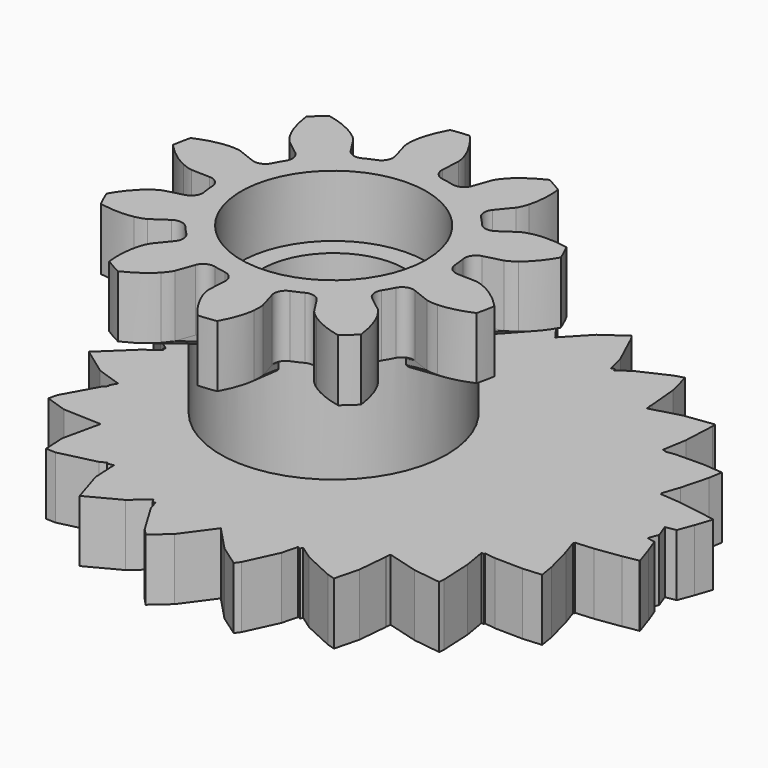
from build123d import *

# Parameters (mm, degrees)
CYLINDER006_R     = 4.5
CYLINDER006_DEPTH = 3
CYLINDER001_R     = 3.5
CYLINDER001_DEPTH = 20
CYLINDER007_R     = 4.5
CYLINDER007_DEPTH = 3
CYLINDER_R        = 5.5
CYLINDER_DEPTH    = 10
PAD005_DEPTH      = 3


with BuildPart() as bearingcutoutbot:
    # Cylinder006 → Cylinder006 (new body)
    with BuildSketch(Plane(origin=(24, 0, 0), x_dir=(1, 0, 0), z_dir=(0, 0, 1))):
        Circle(CYLINDER006_R)
    extrude(amount=CYLINDER006_DEPTH)


with BuildPart() as axlecutout:
    # Cylinder001 → Cylinder001 (new body)
    with BuildSketch(Plane(origin=(24, 0, 0), x_dir=(1, 0, 0), z_dir=(0, 0, 1))):
        Circle(CYLINDER001_R)
    extrude(amount=CYLINDER001_DEPTH)


with BuildPart() as cutouts:
    # Cylinder007 → Cylinder007 (new body)
    with BuildSketch(Plane(origin=(24, 0, 8), x_dir=(1, 0, 0), z_dir=(0, 0, 1))):
        Circle(CYLINDER007_R)
    extrude(amount=CYLINDER007_DEPTH)

    # Fusion006: union bearingCutoutBot, axleCutout
    add(bearingcutoutbot.part)
    add(axlecutout.part)


with BuildPart() as spacer:
    # Cylinder → Cylinder (new body)
    with BuildSketch(Plane(origin=(24, 0, 0), x_dir=(1, 0, 0), z_dir=(0, 0, 1))):
        Circle(CYLINDER_R)
    extrude(amount=CYLINDER_DEPTH)


with BuildPart() as bottomgear:
    # DWire002 → Pad005 (new body)
    with BuildSketch(Plane(origin=(24, 0, 0), x_dir=(1, 0, 0), z_dir=(0, 0, 1))):
        Polygon((16.709229, 2.145517), (16.719025, 2.128678), (16.709229, 2.145517), (16.719025, 2.128678), (16.454472, 1.339116), (16.178713, 0.599104), (15.672795, 0.509454), (15.90905, -0.124547), (15.72899, -0.607747), (16.114571, -0.676073), (16.372412, -1.368), (16.660814, -2.228735), (16.651934, -2.243999), (15.902679, -2.376769), (14.684639, -2.550888), (13.810397, -2.618315), (13.825047, -2.673766), (13.772887, -2.681223), (14.028811, -3.445025), (14.367357, -4.726446), (14.489469, -5.456559), (13.590703, -5.525878), (12.238962, -5.504786), (11.69954, -5.432727), (11.702633, -5.496417), (11.573708, -5.494405), (11.755242, -6.579813), (11.828978, -8.098227), (11.805547, -8.354548), (10.471663, -8.176364), (8.966212, -7.755699), (8.946384, -7.972611), (8.937364, -7.971406), (8.940532, -8.036641), (8.810529, -9.458816), (8.511551, -10.621115), (8.13881, -10.51696), (6.682311, -9.843522), (6.026342, -9.381631), (5.966049, -9.512346), (5.836308, -9.452358), (5.637853, -10.223869), (4.930072, -11.758328), (4.748432, -12.00666), (3.724972, -11.286005), (2.585394, -10.082104), (1.51204, -11.549547), (0.690381, -12.272584), (0.37927, -11.943913), (-0.511368, -10.459177), (-0.661072, -9.983461), (-0.764076, -10.037901), (-0.89147, -9.825529), (-1.687311, -10.525846), (-3.251611, -11.352606), (-3.748981, -9.772107), (-3.811595, -8.569617), (-4.105419, -8.639451), (-4.131165, -8.55764), (-4.43349, -8.717424), (-6.200371, -9.137363), (-6.66889, -9.120193), (-6.723256, -8.076111), (-6.318616, -6.249036), (-8.154589, -6.181752), (-9.179508, -5.838136), (-9.087919, -5.424585), (-8.182627, -3.786216), (-7.998521, -3.610371), (-8.060606, -3.565386), (-7.87793, -3.234786), (-9.067122, -2.836096), (-10.371242, -1.891172), (-8.937012, -0.5213), (-8.244697, -0.01967), (-8.328256, 0.06014), (-8.252357, 0.132632), (-8.881201, 0.588273), (-10.363581, 2.004134), (-9.107384, 2.914336), (-7.836855, 3.340295), (-8.032025, 3.693507), (-7.990861, 3.723334), (-8.11293, 3.839926), (-9.005714, 5.455657), (-9.115492, 5.951336), (-8.170327, 6.268214), (-6.249368, 6.338613), (-6.635781, 8.083385), (-6.577087, 9.210597), (-6.191751, 9.224718), (-4.402621, 8.799492), (-4.026439, 8.600673), (-3.994404, 8.70247), (-3.720966, 8.637482), (-3.662696, 9.756544), (-3.146886, 11.395639), (-1.637572, 10.597941), (-0.779596, 9.842947), (-0.642256, 10.071899), (-0.556347, 10.026495), (-0.43149, 10.423257), (0.448969, 11.891022), (0.815554, 12.278299), (1.576636, 11.608569), (2.509059, 10.333799), (2.512658, 10.325996), (2.51405, 10.326977), (2.69839, 10.074955), (3.782159, 11.219897), (4.87092, 11.986533), (5.005414, 11.80266), (5.720133, 10.253158), (5.938605, 9.403833), (6.08143, 9.469872), (6.135685, 9.352248), (6.725954, 9.767878), (8.168959, 10.435077), (8.617015, 10.560276), (8.896513, 9.473704), (9.027707, 8.0385), (9.020729, 7.894794), (9.040601, 7.897449), (9.059433, 7.69144), (10.48921, 8.09096), (11.899763, 8.279387), (11.916154, 8.100085), (11.841876, 6.570498), (11.647544, 5.408571), (11.785558, 5.410724), (11.782906, 5.356116), (12.245421, 5.417901), (13.588032, 5.438851), (14.562134, 5.363722), (14.452485, 4.708123), (14.112186, 3.420072), (13.832338, 2.584865), (13.889375, 2.576712), (13.875983, 2.526024), (14.675132, 2.464388), (15.888933, 2.290875), align=None)
    extrude(amount=PAD005_DEPTH)


with BuildPart() as variable_gear_stack_tall:
    # InvoluteGear003 → Loft section 0
    with BuildSketch(Plane(origin=(24, 0, 7), x_dir=(0.909961, 0.414693, 0), z_dir=(0, 0, 1))):
        with BuildLine():
            Line((3.237853, -0.562415), (3.715725, -0.644716))
            add(Edge.make_bspline(
                [(3.715725, -0.644716), (3.74779, -0.647646), (3.843951, -0.65134), (4.006412, -0.613919)],
                knots=[0, 0, 0, 0, 1, 1, 1, 1], degree=3))
            add(Edge.make_bspline(
                [(4.006412, -0.613919), (4.1993, -0.568071), (4.472587, -0.464476), (4.795498, -0.234435)],
                knots=[0, 0, 0, 0, 1, 1, 1, 1], degree=3))
            ThreePointArc((4.795498, -0.234435), (4.801227, 0), (4.795498, 0.234435))
            add(Edge.make_bspline(
                [(4.795498, 0.234435), (4.472587, 0.464476), (4.1993, 0.568071), (4.006412, 0.613919)],
                knots=[0, 0, 0, 0, 1, 1, 1, 1], degree=3))
            add(Edge.make_bspline(
                [(4.006412, 0.613919), (3.843951, 0.65134), (3.74779, 0.647646), (3.715725, 0.644716)],
                knots=[0, 0, 0, 0, 1, 1, 1, 1], degree=3))
            Line((3.715725, 0.644716), (3.237853, 0.562415))
            ThreePointArc((3.237853, 0.562415), (3.025626, 0.604776), (2.897121, 0.778904))
            ThreePointArc((2.897121, 0.778904), (2.85317, 0.927051), (2.801648, 1.072738))
            ThreePointArc((2.801648, 1.072738), (2.803262, 1.289145), (2.950057, 1.448159))
            Line((2.950057, 1.448159), (3.385039, 1.662462))
            add(Edge.make_bspline(
                [(3.385039, 1.662462), (3.412703, 1.678939), (3.49267, 1.732473), (3.602108, 1.858239)],
                knots=[0, 0, 0, 0, 1, 1, 1, 1], degree=3))
            add(Edge.make_bspline(
                [(3.602108, 1.858239), (3.731209, 2.008708), (3.891412, 2.253152), (4.017437, 2.629061)],
                knots=[0, 0, 0, 0, 1, 1, 1, 1], degree=3))
            ThreePointArc((4.017437, 2.629061), (3.884274, 2.82209), (3.741842, 3.008385))
            add(Edge.make_bspline(
                [(3.741842, 3.008385), (3.345387, 3.00469), (3.063402, 2.927866), (2.880403, 2.851581)],
                knots=[0, 0, 0, 0, 1, 1, 1, 1], degree=3))
            add(Edge.make_bspline(
                [(2.880403, 2.851581), (2.726974, 2.786363), (2.651349, 2.726853), (2.62713, 2.705634)],
                knots=[0, 0, 0, 0, 1, 1, 1, 1], degree=3))
            Line((2.62713, 2.705634), (2.288899, 2.358165))
            ThreePointArc((2.288899, 2.358165), (2.092305, 2.267693), (1.885992, 2.333031))
            ThreePointArc((1.885992, 2.333031), (1.763356, 2.427051), (1.636041, 2.514631))
            ThreePointArc((1.636041, 2.514631), (1.510146, 2.690656), (1.53544, 2.905585))
            Line((1.53544, 2.905585), (1.761383, 3.334636))
            add(Edge.make_bspline(
                [(1.761383, 3.334636), (1.774079, 3.364227), (1.807307, 3.45454), (1.821921, 3.620613)],
                knots=[0, 0, 0, 0, 1, 1, 1, 1], degree=3))
            add(Edge.make_bspline(
                [(1.821921, 3.620613), (1.837923, 3.818228), (1.823849, 4.110152), (1.704852, 4.488345)],
                knots=[0, 0, 0, 0, 1, 1, 1, 1], degree=3))
            ThreePointArc((1.704852, 4.488345), (1.483661, 4.566238), (1.258929, 4.633234))
            add(Edge.make_bspline(
                [(1.258929, 4.633234), (0.940362, 4.397215), (0.757388, 4.169315), (0.654178, 4.000036)],
                knots=[0, 0, 0, 0, 1, 1, 1, 1], degree=3))
            add(Edge.make_bspline(
                [(0.654178, 4.000036), (0.568385, 3.85709), (0.542183, 3.764494), (0.535061, 3.733092)],
                knots=[0, 0, 0, 0, 1, 1, 1, 1], degree=3))
            Line((0.535061, 3.733092), (0.465663, 3.253177))
            ThreePointArc((0.465663, 3.253177), (0.359794, 3.064428), (0.154478, 2.99602))
            ThreePointArc((0.154478, 2.99602), (0, 3), (-0.154478, 2.99602))
            ThreePointArc((-0.154478, 2.99602), (-0.359794, 3.064428), (-0.465663, 3.253177))
            Line((-0.465663, 3.253177), (-0.535061, 3.733092))
            add(Edge.make_bspline(
                [(-0.535061, 3.733092), (-0.542183, 3.764494), (-0.568385, 3.85709), (-0.654178, 4.000036)],
                knots=[0, 0, 0, 0, 1, 1, 1, 1], degree=3))
            add(Edge.make_bspline(
                [(-0.654178, 4.000036), (-0.757388, 4.169315), (-0.940362, 4.397215), (-1.258929, 4.633234)],
                knots=[0, 0, 0, 0, 1, 1, 1, 1], degree=3))
            ThreePointArc((-1.258929, 4.633234), (-1.483661, 4.566238), (-1.704852, 4.488345))
            add(Edge.make_bspline(
                [(-1.704852, 4.488345), (-1.823849, 4.110152), (-1.837923, 3.818228), (-1.821921, 3.620613)],
                knots=[0, 0, 0, 0, 1, 1, 1, 1], degree=3))
            add(Edge.make_bspline(
                [(-1.821921, 3.620613), (-1.807307, 3.45454), (-1.774079, 3.364227), (-1.761383, 3.334636)],
                knots=[0, 0, 0, 0, 1, 1, 1, 1], degree=3))
            Line((-1.761383, 3.334636), (-1.53544, 2.905585))
            ThreePointArc((-1.53544, 2.905585), (-1.510146, 2.690656), (-1.636041, 2.514631))
            ThreePointArc((-1.636041, 2.514631), (-1.763356, 2.427051), (-1.885992, 2.333031))
            ThreePointArc((-1.885992, 2.333031), (-2.092305, 2.267693), (-2.288899, 2.358165))
            Line((-2.288899, 2.358165), (-2.62713, 2.705634))
            add(Edge.make_bspline(
                [(-2.62713, 2.705634), (-2.651349, 2.726853), (-2.726974, 2.786363), (-2.880403, 2.851581)],
                knots=[0, 0, 0, 0, 1, 1, 1, 1], degree=3))
            add(Edge.make_bspline(
                [(-2.880403, 2.851581), (-3.063402, 2.927866), (-3.345387, 3.00469), (-3.741842, 3.008385)],
                knots=[0, 0, 0, 0, 1, 1, 1, 1], degree=3))
            ThreePointArc((-3.741842, 3.008385), (-3.884274, 2.82209), (-4.017437, 2.629061))
            add(Edge.make_bspline(
                [(-4.017437, 2.629061), (-3.891412, 2.253152), (-3.731209, 2.008708), (-3.602108, 1.858239)],
                knots=[0, 0, 0, 0, 1, 1, 1, 1], degree=3))
            add(Edge.make_bspline(
                [(-3.602108, 1.858239), (-3.49267, 1.732473), (-3.412703, 1.678939), (-3.385039, 1.662462)],
                knots=[0, 0, 0, 0, 1, 1, 1, 1], degree=3))
            Line((-3.385039, 1.662462), (-2.950057, 1.448159))
            ThreePointArc((-2.950057, 1.448159), (-2.803262, 1.289145), (-2.801648, 1.072738))
            ThreePointArc((-2.801648, 1.072738), (-2.85317, 0.927051), (-2.897121, 0.778904))
            ThreePointArc((-2.897121, 0.778904), (-3.025626, 0.604776), (-3.237853, 0.562415))
            Line((-3.237853, 0.562415), (-3.715725, 0.644716))
            add(Edge.make_bspline(
                [(-3.715725, 0.644716), (-3.74779, 0.647646), (-3.843951, 0.65134), (-4.006412, 0.613919)],
                knots=[0, 0, 0, 0, 1, 1, 1, 1], degree=3))
            add(Edge.make_bspline(
                [(-4.006412, 0.613919), (-4.1993, 0.568071), (-4.472587, 0.464476), (-4.795498, 0.234435)],
                knots=[0, 0, 0, 0, 1, 1, 1, 1], degree=3))
            ThreePointArc((-4.795498, 0.234435), (-4.801227, 0), (-4.795498, -0.234435))
            add(Edge.make_bspline(
                [(-4.795498, -0.234435), (-4.472587, -0.464476), (-4.1993, -0.568071), (-4.006412, -0.613919)],
                knots=[0, 0, 0, 0, 1, 1, 1, 1], degree=3))
            add(Edge.make_bspline(
                [(-4.006412, -0.613919), (-3.843951, -0.65134), (-3.74779, -0.647646), (-3.715725, -0.644716)],
                knots=[0, 0, 0, 0, 1, 1, 1, 1], degree=3))
            Line((-3.715725, -0.644716), (-3.237853, -0.562415))
            ThreePointArc((-3.237853, -0.562415), (-3.025626, -0.604776), (-2.897121, -0.778904))
            ThreePointArc((-2.897121, -0.778904), (-2.85317, -0.927051), (-2.801648, -1.072738))
            ThreePointArc((-2.801648, -1.072738), (-2.803262, -1.289145), (-2.950057, -1.448159))
            Line((-2.950057, -1.448159), (-3.385039, -1.662462))
            add(Edge.make_bspline(
                [(-3.385039, -1.662462), (-3.412703, -1.678939), (-3.49267, -1.732473), (-3.602108, -1.858239)],
                knots=[0, 0, 0, 0, 1, 1, 1, 1], degree=3))
            add(Edge.make_bspline(
                [(-3.602108, -1.858239), (-3.731209, -2.008708), (-3.891412, -2.253152), (-4.017437, -2.629061)],
                knots=[0, 0, 0, 0, 1, 1, 1, 1], degree=3))
            ThreePointArc((-4.017437, -2.629061), (-3.884274, -2.82209), (-3.741842, -3.008385))
            add(Edge.make_bspline(
                [(-3.741842, -3.008385), (-3.345387, -3.00469), (-3.063402, -2.927866), (-2.880403, -2.851581)],
                knots=[0, 0, 0, 0, 1, 1, 1, 1], degree=3))
            add(Edge.make_bspline(
                [(-2.880403, -2.851581), (-2.726974, -2.786363), (-2.651349, -2.726853), (-2.62713, -2.705634)],
                knots=[0, 0, 0, 0, 1, 1, 1, 1], degree=3))
            Line((-2.62713, -2.705634), (-2.288899, -2.358165))
            ThreePointArc((-2.288899, -2.358165), (-2.092305, -2.267693), (-1.885992, -2.333031))
            ThreePointArc((-1.885992, -2.333031), (-1.763356, -2.427051), (-1.636041, -2.514631))
            ThreePointArc((-1.636041, -2.514631), (-1.510146, -2.690656), (-1.53544, -2.905585))
            Line((-1.53544, -2.905585), (-1.761383, -3.334636))
            add(Edge.make_bspline(
                [(-1.761383, -3.334636), (-1.774079, -3.364227), (-1.807307, -3.45454), (-1.821921, -3.620613)],
                knots=[0, 0, 0, 0, 1, 1, 1, 1], degree=3))
            add(Edge.make_bspline(
                [(-1.821921, -3.620613), (-1.837923, -3.818228), (-1.823849, -4.110152), (-1.704852, -4.488345)],
                knots=[0, 0, 0, 0, 1, 1, 1, 1], degree=3))
            ThreePointArc((-1.704852, -4.488345), (-1.483661, -4.566238), (-1.258929, -4.633234))
            add(Edge.make_bspline(
                [(-1.258929, -4.633234), (-0.940362, -4.397215), (-0.757388, -4.169315), (-0.654178, -4.000036)],
                knots=[0, 0, 0, 0, 1, 1, 1, 1], degree=3))
            add(Edge.make_bspline(
                [(-0.654178, -4.000036), (-0.568385, -3.85709), (-0.542183, -3.764494), (-0.535061, -3.733092)],
                knots=[0, 0, 0, 0, 1, 1, 1, 1], degree=3))
            Line((-0.535061, -3.733092), (-0.465663, -3.253177))
            ThreePointArc((-0.465663, -3.253177), (-0.359794, -3.064428), (-0.154478, -2.99602))
            ThreePointArc((-0.154478, -2.99602), (0, -3), (0.154478, -2.99602))
            ThreePointArc((0.154478, -2.99602), (0.359794, -3.064428), (0.465663, -3.253177))
            Line((0.465663, -3.253177), (0.535061, -3.733092))
            add(Edge.make_bspline(
                [(0.535061, -3.733092), (0.542183, -3.764494), (0.568385, -3.85709), (0.654178, -4.000036)],
                knots=[0, 0, 0, 0, 1, 1, 1, 1], degree=3))
            add(Edge.make_bspline(
                [(0.654178, -4.000036), (0.757388, -4.169315), (0.940362, -4.397215), (1.258929, -4.633234)],
                knots=[0, 0, 0, 0, 1, 1, 1, 1], degree=3))
            ThreePointArc((1.258929, -4.633234), (1.483661, -4.566238), (1.704852, -4.488345))
            add(Edge.make_bspline(
                [(1.704852, -4.488345), (1.823849, -4.110152), (1.837923, -3.818228), (1.821921, -3.620613)],
                knots=[0, 0, 0, 0, 1, 1, 1, 1], degree=3))
            add(Edge.make_bspline(
                [(1.821921, -3.620613), (1.807307, -3.45454), (1.774079, -3.364227), (1.761383, -3.334636)],
                knots=[0, 0, 0, 0, 1, 1, 1, 1], degree=3))
            Line((1.761383, -3.334636), (1.53544, -2.905585))
            ThreePointArc((1.53544, -2.905585), (1.510146, -2.690656), (1.636041, -2.514631))
            ThreePointArc((1.636041, -2.514631), (1.763356, -2.427051), (1.885992, -2.333031))
            ThreePointArc((1.885992, -2.333031), (2.092305, -2.267693), (2.288899, -2.358165))
            Line((2.288899, -2.358165), (2.62713, -2.705634))
            add(Edge.make_bspline(
                [(2.62713, -2.705634), (2.651349, -2.726853), (2.726974, -2.786363), (2.880403, -2.851581)],
                knots=[0, 0, 0, 0, 1, 1, 1, 1], degree=3))
            add(Edge.make_bspline(
                [(2.880403, -2.851581), (3.063402, -2.927866), (3.345387, -3.00469), (3.741842, -3.008385)],
                knots=[0, 0, 0, 0, 1, 1, 1, 1], degree=3))
            ThreePointArc((3.741842, -3.008385), (3.884274, -2.82209), (4.017437, -2.629061))
            add(Edge.make_bspline(
                [(4.017437, -2.629061), (3.891412, -2.253152), (3.731209, -2.008708), (3.602108, -1.858239)],
                knots=[0, 0, 0, 0, 1, 1, 1, 1], degree=3))
            add(Edge.make_bspline(
                [(3.602108, -1.858239), (3.49267, -1.732473), (3.412703, -1.678939), (3.385039, -1.662462)],
                knots=[0, 0, 0, 0, 1, 1, 1, 1], degree=3))
            Line((3.385039, -1.662462), (2.950057, -1.448159))
            ThreePointArc((2.950057, -1.448159), (2.803262, -1.289145), (2.801648, -1.072738))
            ThreePointArc((2.801648, -1.072738), (2.85317, -0.927051), (2.897121, -0.778904))
            ThreePointArc((2.897121, -0.778904), (3.025626, -0.604776), (3.237853, -0.562415))
        make_face()
    # InvoluteGear005 → Loft section 1
    with BuildSketch(Plane(origin=(24, 0, 8), x_dir=(0.909961, 0.414693, 0), z_dir=(0, 0, 1))):
        with BuildLine():
            Line((6.070974, -1.054528), (6.966984, -1.208843))
            add(Edge.make_bspline(
                [(6.966984, -1.208843), (7.027107, -1.214337), (7.207408, -1.221262), (7.512023, -1.151099)],
                knots=[0, 0, 0, 0, 1, 1, 1, 1], degree=3))
            add(Edge.make_bspline(
                [(7.512023, -1.151099), (7.873688, -1.065133), (8.386102, -0.870893), (8.991559, -0.439566)],
                knots=[0, 0, 0, 0, 1, 1, 1, 1], degree=3))
            ThreePointArc((8.991559, -0.439566), (9.0023, 0), (8.991559, 0.439566))
            add(Edge.make_bspline(
                [(8.991559, 0.439566), (8.386102, 0.870893), (7.873688, 1.065133), (7.512023, 1.151099)],
                knots=[0, 0, 0, 0, 1, 1, 1, 1], degree=3))
            add(Edge.make_bspline(
                [(7.512023, 1.151099), (7.207408, 1.221262), (7.027107, 1.214337), (6.966984, 1.208843)],
                knots=[0, 0, 0, 0, 1, 1, 1, 1], degree=3))
            Line((6.966984, 1.208843), (6.070974, 1.054528))
            ThreePointArc((6.070974, 1.054528), (5.67305, 1.133955), (5.432101, 1.460445))
            ThreePointArc((5.432101, 1.460445), (5.349693, 1.738221), (5.25309, 2.011384))
            ThreePointArc((5.25309, 2.011384), (5.256115, 2.417146), (5.531357, 2.715298))
            Line((5.531357, 2.715298), (6.346948, 3.117116))
            add(Edge.make_bspline(
                [(6.346948, 3.117116), (6.398818, 3.148011), (6.548756, 3.248387), (6.753953, 3.484198)],
                knots=[0, 0, 0, 0, 1, 1, 1, 1], degree=3))
            add(Edge.make_bspline(
                [(6.753953, 3.484198), (6.996017, 3.766327), (7.296397, 4.22466), (7.532695, 4.92949)],
                knots=[0, 0, 0, 0, 1, 1, 1, 1], degree=3))
            ThreePointArc((7.532695, 4.92949), (7.283014, 5.291419), (7.015954, 5.640722))
            add(Edge.make_bspline(
                [(7.015954, 5.640722), (6.272601, 5.633794), (5.743878, 5.489748), (5.400755, 5.346715)],
                knots=[0, 0, 0, 0, 1, 1, 1, 1], degree=3))
            add(Edge.make_bspline(
                [(5.400755, 5.346715), (5.113076, 5.22443), (4.97128, 5.112849), (4.925868, 5.073064)],
                knots=[0, 0, 0, 0, 1, 1, 1, 1], degree=3))
            Line((4.925868, 5.073064), (4.291685, 4.42156))
            ThreePointArc((4.291685, 4.42156), (3.923072, 4.251923), (3.536234, 4.374434))
            ThreePointArc((3.536234, 4.374434), (3.306292, 4.550721), (3.067578, 4.714933))
            ThreePointArc((3.067578, 4.714933), (2.831524, 5.04498), (2.87895, 5.447972))
            Line((2.87895, 5.447972), (3.302594, 6.252442))
            add(Edge.make_bspline(
                [(3.302594, 6.252442), (3.326399, 6.307925), (3.388701, 6.477262), (3.416103, 6.788649)],
                knots=[0, 0, 0, 0, 1, 1, 1, 1], degree=3))
            add(Edge.make_bspline(
                [(3.416103, 6.788649), (3.446105, 7.159178), (3.419716, 7.706536), (3.196597, 8.415648)],
                knots=[0, 0, 0, 0, 1, 1, 1, 1], degree=3))
            ThreePointArc((3.196597, 8.415648), (2.781864, 8.561696), (2.360492, 8.687314))
            add(Edge.make_bspline(
                [(2.360492, 8.687314), (1.76318, 8.244777), (1.420102, 7.817466), (1.226583, 7.500067)],
                knots=[0, 0, 0, 0, 1, 1, 1, 1], degree=3))
            add(Edge.make_bspline(
                [(1.226583, 7.500067), (1.065722, 7.232044), (1.016592, 7.058427), (1.003239, 6.999548)],
                knots=[0, 0, 0, 0, 1, 1, 1, 1], degree=3))
            Line((1.003239, 6.999548), (0.873118, 6.099706))
            ThreePointArc((0.873118, 6.099706), (0.674614, 5.745802), (0.289646, 5.617538))
            ThreePointArc((0.289646, 5.617538), (0, 5.625), (-0.289646, 5.617538))
            ThreePointArc((-0.289646, 5.617538), (-0.674614, 5.745802), (-0.873118, 6.099706))
            Line((-0.873118, 6.099706), (-1.003239, 6.999548))
            add(Edge.make_bspline(
                [(-1.003239, 6.999548), (-1.016592, 7.058427), (-1.065722, 7.232044), (-1.226583, 7.500067)],
                knots=[0, 0, 0, 0, 1, 1, 1, 1], degree=3))
            add(Edge.make_bspline(
                [(-1.226583, 7.500067), (-1.420102, 7.817466), (-1.76318, 8.244777), (-2.360492, 8.687314)],
                knots=[0, 0, 0, 0, 1, 1, 1, 1], degree=3))
            ThreePointArc((-2.360492, 8.687314), (-2.781864, 8.561696), (-3.196597, 8.415648))
            add(Edge.make_bspline(
                [(-3.196597, 8.415648), (-3.419716, 7.706536), (-3.446105, 7.159178), (-3.416103, 6.788649)],
                knots=[0, 0, 0, 0, 1, 1, 1, 1], degree=3))
            add(Edge.make_bspline(
                [(-3.416103, 6.788649), (-3.388701, 6.477262), (-3.326399, 6.307925), (-3.302594, 6.252442)],
                knots=[0, 0, 0, 0, 1, 1, 1, 1], degree=3))
            Line((-3.302594, 6.252442), (-2.87895, 5.447972))
            ThreePointArc((-2.87895, 5.447972), (-2.831524, 5.04498), (-3.067578, 4.714933))
            ThreePointArc((-3.067578, 4.714933), (-3.306292, 4.550721), (-3.536234, 4.374434))
            ThreePointArc((-3.536234, 4.374434), (-3.923072, 4.251923), (-4.291685, 4.42156))
            Line((-4.291685, 4.42156), (-4.925868, 5.073064))
            add(Edge.make_bspline(
                [(-4.925868, 5.073064), (-4.97128, 5.112849), (-5.113076, 5.22443), (-5.400755, 5.346715)],
                knots=[0, 0, 0, 0, 1, 1, 1, 1], degree=3))
            add(Edge.make_bspline(
                [(-5.400755, 5.346715), (-5.743878, 5.489748), (-6.272601, 5.633794), (-7.015954, 5.640722)],
                knots=[0, 0, 0, 0, 1, 1, 1, 1], degree=3))
            ThreePointArc((-7.015954, 5.640722), (-7.283014, 5.291419), (-7.532695, 4.92949))
            add(Edge.make_bspline(
                [(-7.532695, 4.92949), (-7.296397, 4.22466), (-6.996017, 3.766327), (-6.753953, 3.484198)],
                knots=[0, 0, 0, 0, 1, 1, 1, 1], degree=3))
            add(Edge.make_bspline(
                [(-6.753953, 3.484198), (-6.548756, 3.248387), (-6.398818, 3.148011), (-6.346948, 3.117116)],
                knots=[0, 0, 0, 0, 1, 1, 1, 1], degree=3))
            Line((-6.346948, 3.117116), (-5.531357, 2.715298))
            ThreePointArc((-5.531357, 2.715298), (-5.256115, 2.417146), (-5.25309, 2.011384))
            ThreePointArc((-5.25309, 2.011384), (-5.349693, 1.738221), (-5.432101, 1.460445))
            ThreePointArc((-5.432101, 1.460445), (-5.67305, 1.133955), (-6.070974, 1.054528))
            Line((-6.070974, 1.054528), (-6.966984, 1.208843))
            add(Edge.make_bspline(
                [(-6.966984, 1.208843), (-7.027107, 1.214337), (-7.207408, 1.221262), (-7.512023, 1.151099)],
                knots=[0, 0, 0, 0, 1, 1, 1, 1], degree=3))
            add(Edge.make_bspline(
                [(-7.512023, 1.151099), (-7.873688, 1.065133), (-8.386102, 0.870893), (-8.991559, 0.439566)],
                knots=[0, 0, 0, 0, 1, 1, 1, 1], degree=3))
            ThreePointArc((-8.991559, 0.439566), (-9.0023, 0), (-8.991559, -0.439566))
            add(Edge.make_bspline(
                [(-8.991559, -0.439566), (-8.386102, -0.870893), (-7.873688, -1.065133), (-7.512023, -1.151099)],
                knots=[0, 0, 0, 0, 1, 1, 1, 1], degree=3))
            add(Edge.make_bspline(
                [(-7.512023, -1.151099), (-7.207408, -1.221262), (-7.027107, -1.214337), (-6.966984, -1.208843)],
                knots=[0, 0, 0, 0, 1, 1, 1, 1], degree=3))
            Line((-6.966984, -1.208843), (-6.070974, -1.054528))
            ThreePointArc((-6.070974, -1.054528), (-5.67305, -1.133955), (-5.432101, -1.460445))
            ThreePointArc((-5.432101, -1.460445), (-5.349693, -1.738221), (-5.25309, -2.011384))
            ThreePointArc((-5.25309, -2.011384), (-5.256115, -2.417146), (-5.531357, -2.715298))
            Line((-5.531357, -2.715298), (-6.346948, -3.117116))
            add(Edge.make_bspline(
                [(-6.346948, -3.117116), (-6.398818, -3.148011), (-6.548756, -3.248387), (-6.753953, -3.484198)],
                knots=[0, 0, 0, 0, 1, 1, 1, 1], degree=3))
            add(Edge.make_bspline(
                [(-6.753953, -3.484198), (-6.996017, -3.766327), (-7.296397, -4.22466), (-7.532695, -4.92949)],
                knots=[0, 0, 0, 0, 1, 1, 1, 1], degree=3))
            ThreePointArc((-7.532695, -4.92949), (-7.283014, -5.291419), (-7.015954, -5.640722))
            add(Edge.make_bspline(
                [(-7.015954, -5.640722), (-6.272601, -5.633794), (-5.743878, -5.489748), (-5.400755, -5.346715)],
                knots=[0, 0, 0, 0, 1, 1, 1, 1], degree=3))
            add(Edge.make_bspline(
                [(-5.400755, -5.346715), (-5.113076, -5.22443), (-4.97128, -5.112849), (-4.925868, -5.073064)],
                knots=[0, 0, 0, 0, 1, 1, 1, 1], degree=3))
            Line((-4.925868, -5.073064), (-4.291685, -4.42156))
            ThreePointArc((-4.291685, -4.42156), (-3.923072, -4.251923), (-3.536234, -4.374434))
            ThreePointArc((-3.536234, -4.374434), (-3.306292, -4.550721), (-3.067578, -4.714933))
            ThreePointArc((-3.067578, -4.714933), (-2.831524, -5.04498), (-2.87895, -5.447972))
            Line((-2.87895, -5.447972), (-3.302594, -6.252442))
            add(Edge.make_bspline(
                [(-3.302594, -6.252442), (-3.326399, -6.307925), (-3.388701, -6.477262), (-3.416103, -6.788649)],
                knots=[0, 0, 0, 0, 1, 1, 1, 1], degree=3))
            add(Edge.make_bspline(
                [(-3.416103, -6.788649), (-3.446105, -7.159178), (-3.419716, -7.706536), (-3.196597, -8.415648)],
                knots=[0, 0, 0, 0, 1, 1, 1, 1], degree=3))
            ThreePointArc((-3.196597, -8.415648), (-2.781864, -8.561696), (-2.360492, -8.687314))
            add(Edge.make_bspline(
                [(-2.360492, -8.687314), (-1.76318, -8.244777), (-1.420102, -7.817466), (-1.226583, -7.500067)],
                knots=[0, 0, 0, 0, 1, 1, 1, 1], degree=3))
            add(Edge.make_bspline(
                [(-1.226583, -7.500067), (-1.065722, -7.232044), (-1.016592, -7.058427), (-1.003239, -6.999548)],
                knots=[0, 0, 0, 0, 1, 1, 1, 1], degree=3))
            Line((-1.003239, -6.999548), (-0.873118, -6.099706))
            ThreePointArc((-0.873118, -6.099706), (-0.674614, -5.745802), (-0.289646, -5.617538))
            ThreePointArc((-0.289646, -5.617538), (0, -5.625), (0.289646, -5.617538))
            ThreePointArc((0.289646, -5.617538), (0.674614, -5.745802), (0.873118, -6.099706))
            Line((0.873118, -6.099706), (1.003239, -6.999548))
            add(Edge.make_bspline(
                [(1.003239, -6.999548), (1.016592, -7.058427), (1.065722, -7.232044), (1.226583, -7.500067)],
                knots=[0, 0, 0, 0, 1, 1, 1, 1], degree=3))
            add(Edge.make_bspline(
                [(1.226583, -7.500067), (1.420102, -7.817466), (1.76318, -8.244777), (2.360492, -8.687314)],
                knots=[0, 0, 0, 0, 1, 1, 1, 1], degree=3))
            ThreePointArc((2.360492, -8.687314), (2.781864, -8.561696), (3.196597, -8.415648))
            add(Edge.make_bspline(
                [(3.196597, -8.415648), (3.419716, -7.706536), (3.446105, -7.159178), (3.416103, -6.788649)],
                knots=[0, 0, 0, 0, 1, 1, 1, 1], degree=3))
            add(Edge.make_bspline(
                [(3.416103, -6.788649), (3.388701, -6.477262), (3.326399, -6.307925), (3.302594, -6.252442)],
                knots=[0, 0, 0, 0, 1, 1, 1, 1], degree=3))
            Line((3.302594, -6.252442), (2.87895, -5.447972))
            ThreePointArc((2.87895, -5.447972), (2.831524, -5.04498), (3.067578, -4.714933))
            ThreePointArc((3.067578, -4.714933), (3.306292, -4.550721), (3.536234, -4.374434))
            ThreePointArc((3.536234, -4.374434), (3.923072, -4.251923), (4.291685, -4.42156))
            Line((4.291685, -4.42156), (4.925868, -5.073064))
            add(Edge.make_bspline(
                [(4.925868, -5.073064), (4.97128, -5.112849), (5.113076, -5.22443), (5.400755, -5.346715)],
                knots=[0, 0, 0, 0, 1, 1, 1, 1], degree=3))
            add(Edge.make_bspline(
                [(5.400755, -5.346715), (5.743878, -5.489748), (6.272601, -5.633794), (7.015954, -5.640722)],
                knots=[0, 0, 0, 0, 1, 1, 1, 1], degree=3))
            ThreePointArc((7.015954, -5.640722), (7.283014, -5.291419), (7.532695, -4.92949))
            add(Edge.make_bspline(
                [(7.532695, -4.92949), (7.296397, -4.22466), (6.996017, -3.766327), (6.753953, -3.484198)],
                knots=[0, 0, 0, 0, 1, 1, 1, 1], degree=3))
            add(Edge.make_bspline(
                [(6.753953, -3.484198), (6.548756, -3.248387), (6.398818, -3.148011), (6.346948, -3.117116)],
                knots=[0, 0, 0, 0, 1, 1, 1, 1], degree=3))
            Line((6.346948, -3.117116), (5.531357, -2.715298))
            ThreePointArc((5.531357, -2.715298), (5.256115, -2.417146), (5.25309, -2.011384))
            ThreePointArc((5.25309, -2.011384), (5.349693, -1.738221), (5.432101, -1.460445))
            ThreePointArc((5.432101, -1.460445), (5.67305, -1.133955), (6.070974, -1.054528))
        make_face()
    # InvoluteGear004 → Loft section 2
    with BuildSketch(Plane(origin=(24, 0, 11), x_dir=(0.909961, 0.414693, 0), z_dir=(0, 0, 1))):
        with BuildLine():
            Line((6.070974, -1.054528), (6.966984, -1.208843))
            add(Edge.make_bspline(
                [(6.966984, -1.208843), (7.027107, -1.214337), (7.207408, -1.221262), (7.512023, -1.151099)],
                knots=[0, 0, 0, 0, 1, 1, 1, 1], degree=3))
            add(Edge.make_bspline(
                [(7.512023, -1.151099), (7.873688, -1.065133), (8.386102, -0.870893), (8.991559, -0.439566)],
                knots=[0, 0, 0, 0, 1, 1, 1, 1], degree=3))
            ThreePointArc((8.991559, -0.439566), (9.0023, 0), (8.991559, 0.439566))
            add(Edge.make_bspline(
                [(8.991559, 0.439566), (8.386102, 0.870893), (7.873688, 1.065133), (7.512023, 1.151099)],
                knots=[0, 0, 0, 0, 1, 1, 1, 1], degree=3))
            add(Edge.make_bspline(
                [(7.512023, 1.151099), (7.207408, 1.221262), (7.027107, 1.214337), (6.966984, 1.208843)],
                knots=[0, 0, 0, 0, 1, 1, 1, 1], degree=3))
            Line((6.966984, 1.208843), (6.070974, 1.054528))
            ThreePointArc((6.070974, 1.054528), (5.67305, 1.133955), (5.432101, 1.460445))
            ThreePointArc((5.432101, 1.460445), (5.349693, 1.738221), (5.25309, 2.011384))
            ThreePointArc((5.25309, 2.011384), (5.256115, 2.417146), (5.531357, 2.715298))
            Line((5.531357, 2.715298), (6.346948, 3.117116))
            add(Edge.make_bspline(
                [(6.346948, 3.117116), (6.398818, 3.148011), (6.548756, 3.248387), (6.753953, 3.484198)],
                knots=[0, 0, 0, 0, 1, 1, 1, 1], degree=3))
            add(Edge.make_bspline(
                [(6.753953, 3.484198), (6.996017, 3.766327), (7.296397, 4.22466), (7.532695, 4.92949)],
                knots=[0, 0, 0, 0, 1, 1, 1, 1], degree=3))
            ThreePointArc((7.532695, 4.92949), (7.283014, 5.291419), (7.015954, 5.640722))
            add(Edge.make_bspline(
                [(7.015954, 5.640722), (6.272601, 5.633794), (5.743878, 5.489748), (5.400755, 5.346715)],
                knots=[0, 0, 0, 0, 1, 1, 1, 1], degree=3))
            add(Edge.make_bspline(
                [(5.400755, 5.346715), (5.113076, 5.22443), (4.97128, 5.112849), (4.925868, 5.073064)],
                knots=[0, 0, 0, 0, 1, 1, 1, 1], degree=3))
            Line((4.925868, 5.073064), (4.291685, 4.42156))
            ThreePointArc((4.291685, 4.42156), (3.923072, 4.251923), (3.536234, 4.374434))
            ThreePointArc((3.536234, 4.374434), (3.306292, 4.550721), (3.067578, 4.714933))
            ThreePointArc((3.067578, 4.714933), (2.831524, 5.04498), (2.87895, 5.447972))
            Line((2.87895, 5.447972), (3.302594, 6.252442))
            add(Edge.make_bspline(
                [(3.302594, 6.252442), (3.326399, 6.307925), (3.388701, 6.477262), (3.416103, 6.788649)],
                knots=[0, 0, 0, 0, 1, 1, 1, 1], degree=3))
            add(Edge.make_bspline(
                [(3.416103, 6.788649), (3.446105, 7.159178), (3.419716, 7.706536), (3.196597, 8.415648)],
                knots=[0, 0, 0, 0, 1, 1, 1, 1], degree=3))
            ThreePointArc((3.196597, 8.415648), (2.781864, 8.561696), (2.360492, 8.687314))
            add(Edge.make_bspline(
                [(2.360492, 8.687314), (1.76318, 8.244777), (1.420102, 7.817466), (1.226583, 7.500067)],
                knots=[0, 0, 0, 0, 1, 1, 1, 1], degree=3))
            add(Edge.make_bspline(
                [(1.226583, 7.500067), (1.065722, 7.232044), (1.016592, 7.058427), (1.003239, 6.999548)],
                knots=[0, 0, 0, 0, 1, 1, 1, 1], degree=3))
            Line((1.003239, 6.999548), (0.873118, 6.099706))
            ThreePointArc((0.873118, 6.099706), (0.674614, 5.745802), (0.289646, 5.617538))
            ThreePointArc((0.289646, 5.617538), (0, 5.625), (-0.289646, 5.617538))
            ThreePointArc((-0.289646, 5.617538), (-0.674614, 5.745802), (-0.873118, 6.099706))
            Line((-0.873118, 6.099706), (-1.003239, 6.999548))
            add(Edge.make_bspline(
                [(-1.003239, 6.999548), (-1.016592, 7.058427), (-1.065722, 7.232044), (-1.226583, 7.500067)],
                knots=[0, 0, 0, 0, 1, 1, 1, 1], degree=3))
            add(Edge.make_bspline(
                [(-1.226583, 7.500067), (-1.420102, 7.817466), (-1.76318, 8.244777), (-2.360492, 8.687314)],
                knots=[0, 0, 0, 0, 1, 1, 1, 1], degree=3))
            ThreePointArc((-2.360492, 8.687314), (-2.781864, 8.561696), (-3.196597, 8.415648))
            add(Edge.make_bspline(
                [(-3.196597, 8.415648), (-3.419716, 7.706536), (-3.446105, 7.159178), (-3.416103, 6.788649)],
                knots=[0, 0, 0, 0, 1, 1, 1, 1], degree=3))
            add(Edge.make_bspline(
                [(-3.416103, 6.788649), (-3.388701, 6.477262), (-3.326399, 6.307925), (-3.302594, 6.252442)],
                knots=[0, 0, 0, 0, 1, 1, 1, 1], degree=3))
            Line((-3.302594, 6.252442), (-2.87895, 5.447972))
            ThreePointArc((-2.87895, 5.447972), (-2.831524, 5.04498), (-3.067578, 4.714933))
            ThreePointArc((-3.067578, 4.714933), (-3.306292, 4.550721), (-3.536234, 4.374434))
            ThreePointArc((-3.536234, 4.374434), (-3.923072, 4.251923), (-4.291685, 4.42156))
            Line((-4.291685, 4.42156), (-4.925868, 5.073064))
            add(Edge.make_bspline(
                [(-4.925868, 5.073064), (-4.97128, 5.112849), (-5.113076, 5.22443), (-5.400755, 5.346715)],
                knots=[0, 0, 0, 0, 1, 1, 1, 1], degree=3))
            add(Edge.make_bspline(
                [(-5.400755, 5.346715), (-5.743878, 5.489748), (-6.272601, 5.633794), (-7.015954, 5.640722)],
                knots=[0, 0, 0, 0, 1, 1, 1, 1], degree=3))
            ThreePointArc((-7.015954, 5.640722), (-7.283014, 5.291419), (-7.532695, 4.92949))
            add(Edge.make_bspline(
                [(-7.532695, 4.92949), (-7.296397, 4.22466), (-6.996017, 3.766327), (-6.753953, 3.484198)],
                knots=[0, 0, 0, 0, 1, 1, 1, 1], degree=3))
            add(Edge.make_bspline(
                [(-6.753953, 3.484198), (-6.548756, 3.248387), (-6.398818, 3.148011), (-6.346948, 3.117116)],
                knots=[0, 0, 0, 0, 1, 1, 1, 1], degree=3))
            Line((-6.346948, 3.117116), (-5.531357, 2.715298))
            ThreePointArc((-5.531357, 2.715298), (-5.256115, 2.417146), (-5.25309, 2.011384))
            ThreePointArc((-5.25309, 2.011384), (-5.349693, 1.738221), (-5.432101, 1.460445))
            ThreePointArc((-5.432101, 1.460445), (-5.67305, 1.133955), (-6.070974, 1.054528))
            Line((-6.070974, 1.054528), (-6.966984, 1.208843))
            add(Edge.make_bspline(
                [(-6.966984, 1.208843), (-7.027107, 1.214337), (-7.207408, 1.221262), (-7.512023, 1.151099)],
                knots=[0, 0, 0, 0, 1, 1, 1, 1], degree=3))
            add(Edge.make_bspline(
                [(-7.512023, 1.151099), (-7.873688, 1.065133), (-8.386102, 0.870893), (-8.991559, 0.439566)],
                knots=[0, 0, 0, 0, 1, 1, 1, 1], degree=3))
            ThreePointArc((-8.991559, 0.439566), (-9.0023, 0), (-8.991559, -0.439566))
            add(Edge.make_bspline(
                [(-8.991559, -0.439566), (-8.386102, -0.870893), (-7.873688, -1.065133), (-7.512023, -1.151099)],
                knots=[0, 0, 0, 0, 1, 1, 1, 1], degree=3))
            add(Edge.make_bspline(
                [(-7.512023, -1.151099), (-7.207408, -1.221262), (-7.027107, -1.214337), (-6.966984, -1.208843)],
                knots=[0, 0, 0, 0, 1, 1, 1, 1], degree=3))
            Line((-6.966984, -1.208843), (-6.070974, -1.054528))
            ThreePointArc((-6.070974, -1.054528), (-5.67305, -1.133955), (-5.432101, -1.460445))
            ThreePointArc((-5.432101, -1.460445), (-5.349693, -1.738221), (-5.25309, -2.011384))
            ThreePointArc((-5.25309, -2.011384), (-5.256115, -2.417146), (-5.531357, -2.715298))
            Line((-5.531357, -2.715298), (-6.346948, -3.117116))
            add(Edge.make_bspline(
                [(-6.346948, -3.117116), (-6.398818, -3.148011), (-6.548756, -3.248387), (-6.753953, -3.484198)],
                knots=[0, 0, 0, 0, 1, 1, 1, 1], degree=3))
            add(Edge.make_bspline(
                [(-6.753953, -3.484198), (-6.996017, -3.766327), (-7.296397, -4.22466), (-7.532695, -4.92949)],
                knots=[0, 0, 0, 0, 1, 1, 1, 1], degree=3))
            ThreePointArc((-7.532695, -4.92949), (-7.283014, -5.291419), (-7.015954, -5.640722))
            add(Edge.make_bspline(
                [(-7.015954, -5.640722), (-6.272601, -5.633794), (-5.743878, -5.489748), (-5.400755, -5.346715)],
                knots=[0, 0, 0, 0, 1, 1, 1, 1], degree=3))
            add(Edge.make_bspline(
                [(-5.400755, -5.346715), (-5.113076, -5.22443), (-4.97128, -5.112849), (-4.925868, -5.073064)],
                knots=[0, 0, 0, 0, 1, 1, 1, 1], degree=3))
            Line((-4.925868, -5.073064), (-4.291685, -4.42156))
            ThreePointArc((-4.291685, -4.42156), (-3.923072, -4.251923), (-3.536234, -4.374434))
            ThreePointArc((-3.536234, -4.374434), (-3.306292, -4.550721), (-3.067578, -4.714933))
            ThreePointArc((-3.067578, -4.714933), (-2.831524, -5.04498), (-2.87895, -5.447972))
            Line((-2.87895, -5.447972), (-3.302594, -6.252442))
            add(Edge.make_bspline(
                [(-3.302594, -6.252442), (-3.326399, -6.307925), (-3.388701, -6.477262), (-3.416103, -6.788649)],
                knots=[0, 0, 0, 0, 1, 1, 1, 1], degree=3))
            add(Edge.make_bspline(
                [(-3.416103, -6.788649), (-3.446105, -7.159178), (-3.419716, -7.706536), (-3.196597, -8.415648)],
                knots=[0, 0, 0, 0, 1, 1, 1, 1], degree=3))
            ThreePointArc((-3.196597, -8.415648), (-2.781864, -8.561696), (-2.360492, -8.687314))
            add(Edge.make_bspline(
                [(-2.360492, -8.687314), (-1.76318, -8.244777), (-1.420102, -7.817466), (-1.226583, -7.500067)],
                knots=[0, 0, 0, 0, 1, 1, 1, 1], degree=3))
            add(Edge.make_bspline(
                [(-1.226583, -7.500067), (-1.065722, -7.232044), (-1.016592, -7.058427), (-1.003239, -6.999548)],
                knots=[0, 0, 0, 0, 1, 1, 1, 1], degree=3))
            Line((-1.003239, -6.999548), (-0.873118, -6.099706))
            ThreePointArc((-0.873118, -6.099706), (-0.674614, -5.745802), (-0.289646, -5.617538))
            ThreePointArc((-0.289646, -5.617538), (0, -5.625), (0.289646, -5.617538))
            ThreePointArc((0.289646, -5.617538), (0.674614, -5.745802), (0.873118, -6.099706))
            Line((0.873118, -6.099706), (1.003239, -6.999548))
            add(Edge.make_bspline(
                [(1.003239, -6.999548), (1.016592, -7.058427), (1.065722, -7.232044), (1.226583, -7.500067)],
                knots=[0, 0, 0, 0, 1, 1, 1, 1], degree=3))
            add(Edge.make_bspline(
                [(1.226583, -7.500067), (1.420102, -7.817466), (1.76318, -8.244777), (2.360492, -8.687314)],
                knots=[0, 0, 0, 0, 1, 1, 1, 1], degree=3))
            ThreePointArc((2.360492, -8.687314), (2.781864, -8.561696), (3.196597, -8.415648))
            add(Edge.make_bspline(
                [(3.196597, -8.415648), (3.419716, -7.706536), (3.446105, -7.159178), (3.416103, -6.788649)],
                knots=[0, 0, 0, 0, 1, 1, 1, 1], degree=3))
            add(Edge.make_bspline(
                [(3.416103, -6.788649), (3.388701, -6.477262), (3.326399, -6.307925), (3.302594, -6.252442)],
                knots=[0, 0, 0, 0, 1, 1, 1, 1], degree=3))
            Line((3.302594, -6.252442), (2.87895, -5.447972))
            ThreePointArc((2.87895, -5.447972), (2.831524, -5.04498), (3.067578, -4.714933))
            ThreePointArc((3.067578, -4.714933), (3.306292, -4.550721), (3.536234, -4.374434))
            ThreePointArc((3.536234, -4.374434), (3.923072, -4.251923), (4.291685, -4.42156))
            Line((4.291685, -4.42156), (4.925868, -5.073064))
            add(Edge.make_bspline(
                [(4.925868, -5.073064), (4.97128, -5.112849), (5.113076, -5.22443), (5.400755, -5.346715)],
                knots=[0, 0, 0, 0, 1, 1, 1, 1], degree=3))
            add(Edge.make_bspline(
                [(5.400755, -5.346715), (5.743878, -5.489748), (6.272601, -5.633794), (7.015954, -5.640722)],
                knots=[0, 0, 0, 0, 1, 1, 1, 1], degree=3))
            ThreePointArc((7.015954, -5.640722), (7.283014, -5.291419), (7.532695, -4.92949))
            add(Edge.make_bspline(
                [(7.532695, -4.92949), (7.296397, -4.22466), (6.996017, -3.766327), (6.753953, -3.484198)],
                knots=[0, 0, 0, 0, 1, 1, 1, 1], degree=3))
            add(Edge.make_bspline(
                [(6.753953, -3.484198), (6.548756, -3.248387), (6.398818, -3.148011), (6.346948, -3.117116)],
                knots=[0, 0, 0, 0, 1, 1, 1, 1], degree=3))
            Line((6.346948, -3.117116), (5.531357, -2.715298))
            ThreePointArc((5.531357, -2.715298), (5.256115, -2.417146), (5.25309, -2.011384))
            ThreePointArc((5.25309, -2.011384), (5.349693, -1.738221), (5.432101, -1.460445))
            ThreePointArc((5.432101, -1.460445), (5.67305, -1.133955), (6.070974, -1.054528))
        make_face()
    loft(ruled=True)

    # Fusion013: union spacer, bottomgear
    add(spacer.part)
    add(bottomgear.part)

    # Cut011002003: cut cutouts
    add(cutouts.part, mode=Mode.SUBTRACT)


solid = variable_gear_stack_tall.part
